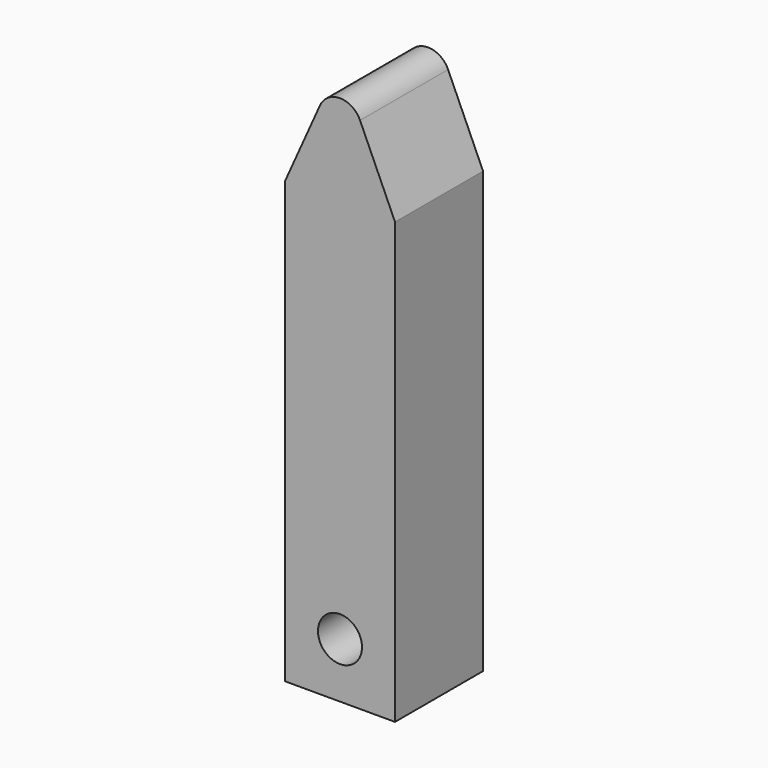
from build123d import *

# Parameters (mm, degrees)
F0_R     = 2
F1_DEPTH = 10


with BuildPart() as f1:
    # F0 (on Front) → F1 (new body)
    with BuildSketch(Plane.XZ):
        with BuildLine():
            Line((-5, -20), (5, -20))
            Line((5, -20), (5, 20))
            Line((5, 20), (1.825286, 27.088266))
            ThreePointArc((1.825286, 27.088266), (0, 28.270751), (-1.825286, 27.088266))
            Line((-1.825286, 27.088266), (-5, 20))
            Line((-5, 20), (-5, -20))
        make_face()
        with Locations((0, -15)):
            Circle(F0_R, mode=Mode.SUBTRACT)
    extrude(amount=F1_DEPTH)


solid = f1.part
